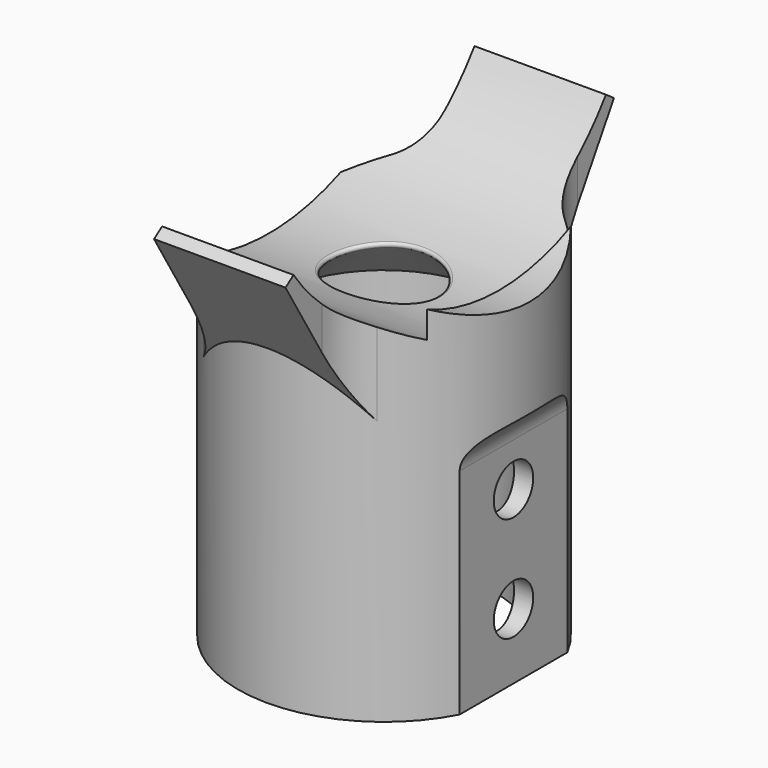
from build123d import *

# Parameters (mm, degrees)
F2_R           = 2.38125
F4_DEPTH       = 25.4
F4_DEPTH_BACK  = 25.4
F5_R           = 2.38125
F6_DEPTH       = 6.35
F8_DEPTH       = 6.35
F8_DEPTH_BACK  = 6.35
F9_R           = 23.0251
F10_DEPTH      = 25.4
F10_DEPTH_BACK = 11.1125
F11_R          = 5.08
F12_R          = 20.6375
F13_DEPTH      = 25.4
F15_R          = 26.67
F16_DEPTH      = 25.4
F17_R          = 0.254


with BuildPart() as f1:
    # F0 (on Front) → F1 (revolve)
    with BuildSketch(Plane.XZ):
        Polygon((-10.922, -9.1646461717), (0, 0), (0, 9.525), (-14.097, 9.525), (-14.097, -34.5646461717), (-10.922, -34.5646461717), align=None)
    revolve(axis=Axis((0, 0, -35.6408189919), (0, 0, -1)))

    # F2
    f2_edges = [f1.edges().sort_by_distance(p)[0] for p in [
        (14.097, 0, 9.525),
    ]]
    fillet(f2_edges, radius=F2_R)

    # F3 (on Front) → F4 (cut, two sides)
    with BuildSketch(Plane.XZ) as f4_sk:
        with BuildLine():
            ThreePointArc((15.6845, -10.668), (13.4394359697, -11.5979359697), (12.5095, -13.843))
            Line((12.5095, -13.843), (12.5095, -38.608))
            Line((12.5095, -38.608), (18.8595, -38.608))
            Line((18.8595, -38.608), (18.8595, -10.668))
            Line((18.8595, -10.668), (15.6845, -10.668))
        make_face()
    extrude(amount=F4_DEPTH, mode=Mode.SUBTRACT)
    extrude(f4_sk.sketch, amount=-F4_DEPTH_BACK, mode=Mode.SUBTRACT)

    # F5 (on face) → F6 (cut)
    with BuildSketch(Plane.YZ.offset(12.5095)):
        with Locations((0, -18.0546461717)):
            Circle(F5_R)
        with Locations((0, -28.2146461717)):
            Circle(F5_R)
    extrude(amount=-F6_DEPTH, mode=Mode.SUBTRACT)

    # F7 (on Right) → F8 (join, two sides)
    with BuildSketch(Plane.YZ) as f8_sk:
        Polygon((-19.8335813084, 5.1623768582), (-11.1205259429, -9.3312292172), (0, 0), (11.1205259429, -9.3312292172), (19.8335813084, 5.1623768582), (15.6609765601, 8.0840661569), (-15.6609765601, 8.0840661569), align=None)
    extrude(amount=F8_DEPTH)
    extrude(f8_sk.sketch, amount=-F8_DEPTH_BACK)

    # F9 (on Right) → F10 (cut, two sides)
    with BuildSketch(Plane.YZ) as f10_sk:
        with Locations((0, 19.05)):
            Circle(F9_R)
    extrude(amount=-F10_DEPTH, mode=Mode.SUBTRACT)
    extrude(f10_sk.sketch, amount=F10_DEPTH_BACK, mode=Mode.SUBTRACT)

    # F11
    f11_edges = [f1.edges().sort_by_distance(p)[0] for p in [
        (6.35, -12.585822, -3.562342),
        (6.35, 12.585822, -3.562342),
        (-6.35, -12.585822, -3.562342),
        (-6.35, 12.585822, -3.562342),
    ]]
    fillet(f11_edges, radius=F11_R)

    # F12 (on Right) → F13 (cut)
    with BuildSketch(Plane.YZ):
        with Locations((0, 19.05)):
            Circle(F12_R)
    extrude(amount=F13_DEPTH, mode=Mode.SUBTRACT)

    # F15 (on offset) → F16 (cut)
    with BuildSketch(Plane.YZ.offset(-11.1125)):
        with Locations((0, 19.05)):
            Circle(F15_R)
    extrude(amount=-F16_DEPTH, mode=Mode.SUBTRACT)

    # F17
    f17_edges = [f1.edges().sort_by_distance(p)[0] for p in [
        (4.73734, 0, -3.9751),
    ]]
    fillet(f17_edges, radius=F17_R)


solid = f1.part
